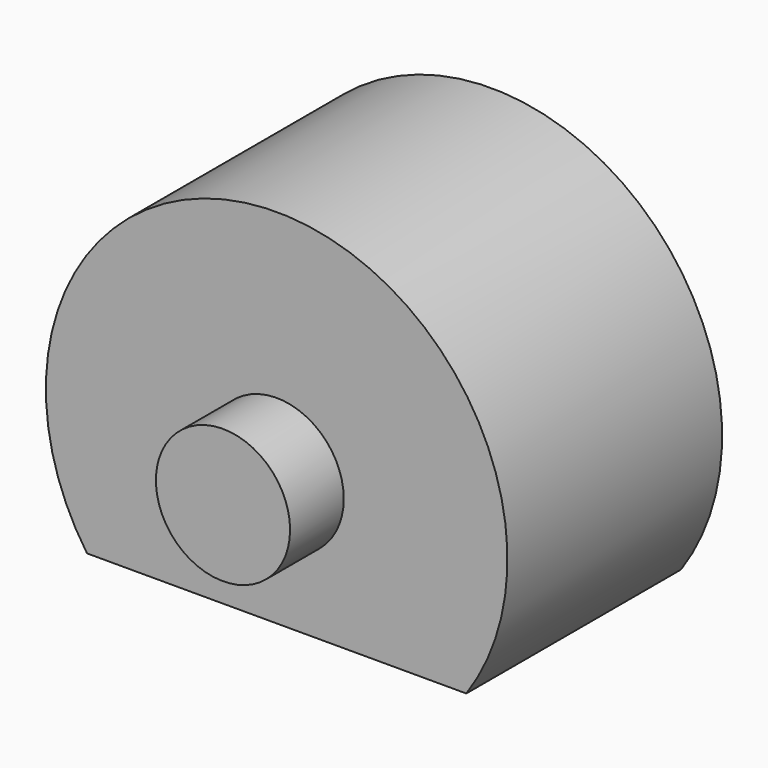
from build123d import *

# Parameters (mm, degrees)
F1_DEPTH = 12.7
F2_R     = 3.175
F3_DEPTH = 3.175
F4_R     = 3.175
F5_DEPTH = 3.175
F6_R     = 3.175
F7_DEPTH = 12.7


with BuildPart() as f1:
    # F0 (on Front) → F1 (new body)
    with BuildSketch(Plane.XZ):
        with BuildLine():
            Line((-8.975765, -6.223), (8.975765, -6.223))
            ThreePointArc((8.975765, -6.223), (0, 10.922), (-8.975765, -6.223))
        make_face()
    extrude(amount=F1_DEPTH)

    # F2 (on face) → F3 (join)
    with BuildSketch(Plane.XZ.offset(12.7)):
        Circle(F2_R)
    extrude(amount=F3_DEPTH)

    # F4 (on face) → F5 (join)
    with BuildSketch(Plane(origin=(0, 0, 0), x_dir=(-1, 0, 0), z_dir=(0, 1, 0))):
        Circle(F4_R)
    extrude(amount=F5_DEPTH)

    # F6 (on face) → F7 (cut)
    with BuildSketch(Plane(origin=(0, 0, -6.223), x_dir=(1, 0, 0), z_dir=(0, 0, -1))):
        with Locations((0, 6.35)):
            Circle(F6_R)
    extrude(amount=-F7_DEPTH, mode=Mode.SUBTRACT)


solid = f1.part
